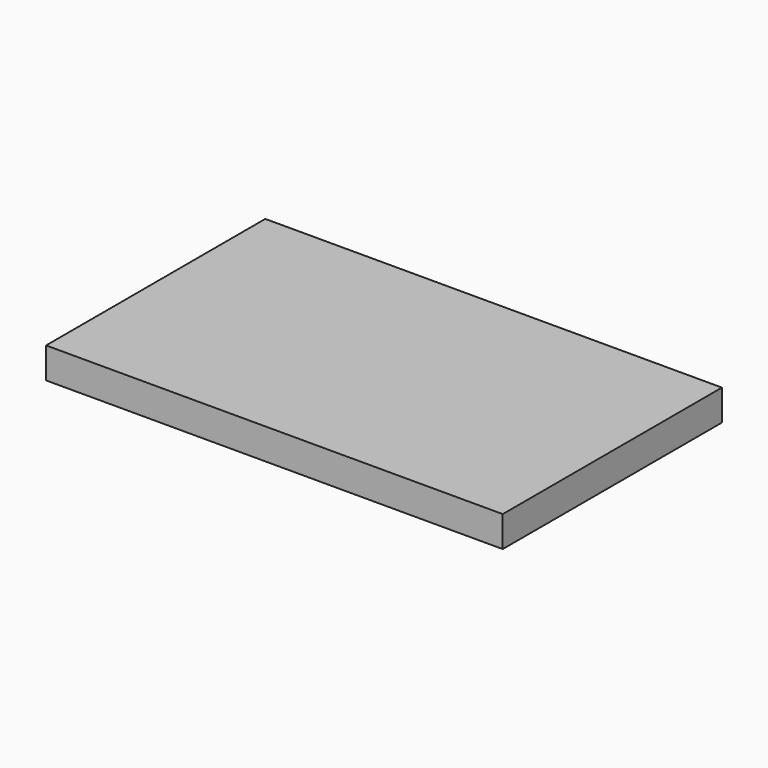
from build123d import *

# Parameters (mm, degrees)
SKETCH_W  = 200
SKETCH_H  = 120
PAD_DEPTH = 13.5


with BuildPart() as part:
    # Sketch → Pad (new body)
    with BuildSketch(Plane.XY):
        with Locations((100, 60)):
            Rectangle(SKETCH_W, SKETCH_H)
    extrude(amount=PAD_DEPTH)


solid = part.part
